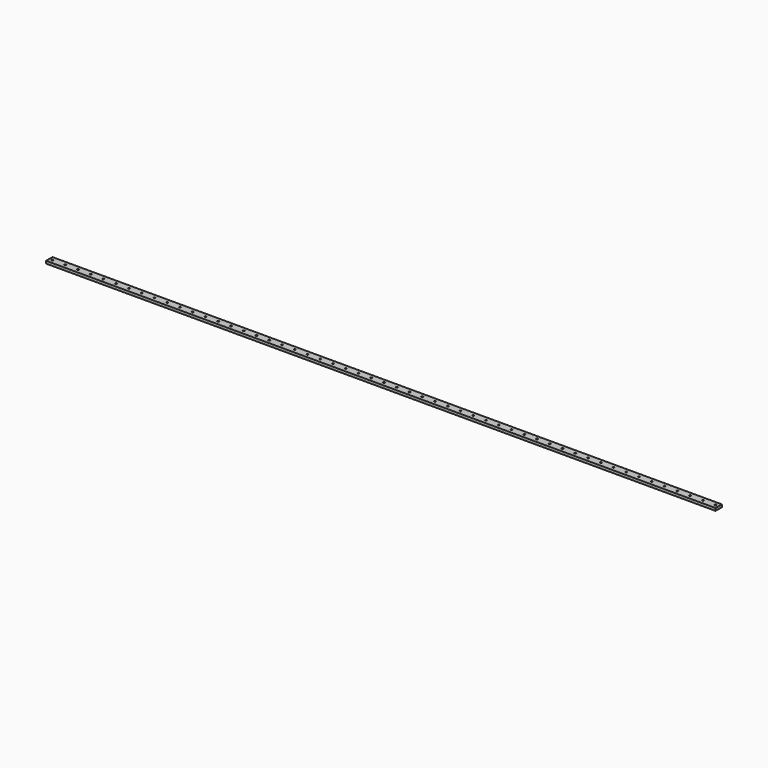
from build123d import *

# Parameters (mm, degrees)
F0_W     = 4200
F0_H     = 50
F1_DEPTH = 16
F3_D     = 10.3


with BuildPart() as f1:
    # F0 (on Top) → F1 (new body)
    with BuildSketch(Plane.XY):
        Rectangle(F0_W, F0_H)
    extrude(amount=F1_DEPTH)

    # F3 (through all)
    with Locations(Plane.XY.offset(16)):
        with Locations((-2080, 0), (-2000, 0), (-1920, 0), (-1840, 0), (-1760, 0), (-1680, 0), (-1600, 0), (-1520, 0), (-1440, 0), (-1360, 0), (-1280, 0), (-1200, 0), (-1120, 0), (-1040, 0), (-960, 0), (-880, 0), (-800, 0), (-720, 0), (-640, 0), (-560, 0), (-480, 0), (-400, 0), (-320, 0), (-240, 0), (-160, 0), (-80, 0), (0, 0), (80, 0), (160, 0), (240, 0), (320, 0), (400, 0), (480, 0), (560, 0), (640, 0), (720, 0), (800, 0), (880, 0), (960, 0), (1040, 0), (1120, 0), (1200, 0), (1280, 0), (1360, 0), (1440, 0), (1520, 0), (1600, 0), (1680, 0), (1760, 0), (1840, 0), (1920, 0), (2080, 0), (2000, 0)):
            Hole(F3_D / 2)


solid = f1.part
